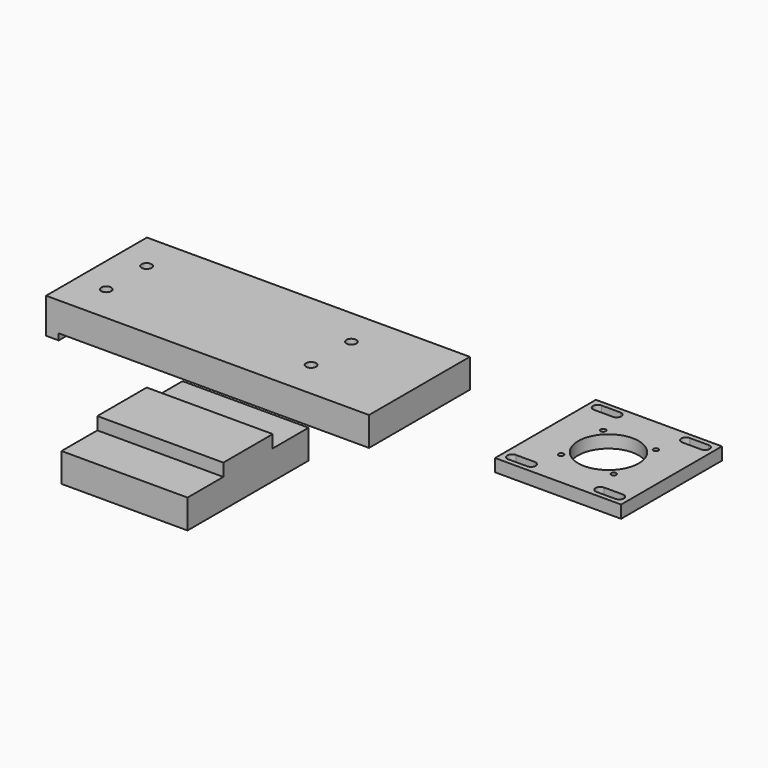
from build123d import *

# Parameters (mm, degrees)
F0_W            = 325.4375
F0_H            = 127
F1_DEPTH        = 9.525
F2_W            = 300.0375
F2_H            = 31.115
F3_DEPTH        = 19.685
F5_W            = 127
F5_H            = 152.4
F6_DEPTH        = 29.21
F7_W            = 12.7
F7_H            = 127
F8_DEPTH        = 6.35
F9_D            = 9.525
F9_DEPTH        = 12.7
F9_TIP          = 2.8615986981
F11_DEPTH       = 12.7
F12_W           = 127
F12_H           = 127
F12_R           = 30.48
F13_DEPTH       = 12.7
F14_D           = 5.1054
F14_DEPTH       = 15.875
F14_CSINK_D     = 10.4394
F14_CSINK_ANGLE = 82
F14_TIP         = 1.5338169022
F16_D           = 3.3
F16_DEPTH       = 17.975
F16_TIP         = 0.9914200214
F18_D           = 10.0838
F18_DEPTH       = 20.6248
F18_TIP         = 3.0294791551


with BuildPart() as f1:
    # F0 (on Top) → F1 (new body)
    with BuildSketch(Plane.XY):
        with Locations((-162.71875, 63.5)):
            Rectangle(F0_W, F0_H)
    extrude(amount=F1_DEPTH)

    # F2 (on face) → F3 (join)
    with BuildSketch(Plane(origin=(0, 0, 0), x_dir=(1, 0, 0), z_dir=(0, 0, -1))):
        Polygon((-312.7375, 0), (-325.4375, 0), (-325.4375, -127), (-312.7375, -127), (-312.7375, -95.885), (-312.7375, -31.115), align=None)
        with Locations((-162.71875, -15.5575)):
            Rectangle(F2_W, F2_H)
        Polygon((0, 0), (-12.7, 0), (-12.7, -31.115), (-12.7, -95.885), (-312.7375, -95.885), (-312.7375, -127), (-12.7, -127), (0, -127), align=None)
    extrude(amount=F3_DEPTH)

    # F7 (on face) → F8 (join)
    with BuildSketch(Plane(origin=(0, 0, -19.685), x_dir=(1, 0, 0), z_dir=(0, 0, -1))):
        with Locations((-319.0875, -63.5)):
            Rectangle(F7_W, F7_H)
    extrude(amount=F8_DEPTH)

    # F9
    with Locations(Plane(origin=(-325.4375, 0, 0), x_dir=(0, -1, 0), z_dir=(-1, 0, 0))):
        with Locations((-63.5, -15.875)):
            Hole(F9_D / 2, depth=F9_DEPTH)
            with Locations((0, 0, -(F9_DEPTH + F9_TIP / 2))):  # 118° drill point
                Cone(0, F9_D / 2, F9_TIP, mode=Mode.SUBTRACT)

    # F16
    with Locations(Plane(origin=(-325.4375, 0, 0), x_dir=(0, -1, 0), z_dir=(-1, 0, 0))):
        with Locations((-30.1625, -15.875), (-96.8375, -15.875)):
            Hole(F16_D / 2, depth=F16_DEPTH)
            with Locations((0, 0, -(F16_DEPTH + F16_TIP / 2))):  # 118° drill point
                Cone(0, F16_D / 2, F16_TIP, mode=Mode.SUBTRACT)

    # F18
    with Locations(Plane.XY.offset(9.525)):
        with Locations((-295.275, 38.1), (-295.275, 88.9), (-88.9, 38.1), (-88.9, 88.9)):
            Hole(F18_D / 2, depth=F18_DEPTH)
            with Locations((0, 0, -(F18_DEPTH + F18_TIP / 2))):  # 118° drill point
                Cone(0, F18_D / 2, F18_TIP, mode=Mode.SUBTRACT)


with BuildPart() as f6:
    # F5 (on Top) → F6 (new body)
    with BuildSketch(Plane.XY):
        with Locations((-63.5, -152.4)):
            Rectangle(F5_W, F5_H)
    extrude(amount=F6_DEPTH)

    # F10 (on face) → F11 (join)
    with BuildSketch(Plane.XY.offset(29.21)):
        Polygon((-127, -152.4), (-127, -183.515), (0, -183.515), (0, -152.4), (0, -121.285), (-127, -121.285), align=None)
    extrude(amount=F11_DEPTH)


with BuildPart() as f13:
    # F12 (on Top) → F13 (new body)
    with BuildSketch(Plane.XY):
        with Locations((190.5, 63.5)):
            Rectangle(F12_W, F12_H)
        with BuildLine():
            Line((136.525, 14.2875), (155.575, 14.2875))
            ThreePointArc((155.575, 14.2875), (160.3375, 9.525), (155.575, 4.7625))
            Line((155.575, 4.7625), (136.525, 4.7625))
            ThreePointArc((136.525, 4.7625), (131.7625, 9.525), (136.525, 14.2875))
        make_face(mode=Mode.SUBTRACT)
        with BuildLine():
            ThreePointArc((244.475, 14.2875), (249.2375, 9.525), (244.475, 4.7625))
            Line((244.475, 4.7625), (225.425, 4.7625))
            ThreePointArc((225.425, 4.7625), (220.6625, 9.525), (225.425, 14.2875))
            Line((225.425, 14.2875), (244.475, 14.2875))
        make_face(mode=Mode.SUBTRACT)
        with BuildLine():
            ThreePointArc((136.525, 112.7125), (131.7625, 117.475), (136.525, 122.2375))
            Line((136.525, 122.2375), (155.575, 122.2375))
            ThreePointArc((155.575, 122.2375), (160.3375, 117.475), (155.575, 112.7125))
            Line((155.575, 112.7125), (136.525, 112.7125))
        make_face(mode=Mode.SUBTRACT)
        with Locations((190.5, 63.5)):
            Circle(F12_R, mode=Mode.SUBTRACT)
        with BuildLine():
            Line((244.475, 112.7125), (225.425, 112.7125))
            ThreePointArc((225.425, 112.7125), (220.6625, 117.475), (225.425, 122.2375))
            Line((225.425, 122.2375), (244.475, 122.2375))
            ThreePointArc((244.475, 122.2375), (249.2375, 117.475), (244.475, 112.7125))
        make_face(mode=Mode.SUBTRACT)
    extrude(amount=F13_DEPTH)

    # F14
    with Locations(Plane(origin=(0, 0, 0), x_dir=(1, 0, 0), z_dir=(0, 0, -1))):
        with Locations((217.0186963255, -36.9813036745), (217.0186963255, -90.0186963255), (163.9813036745, -90.0186963255), (163.9813036745, -36.9813036745)):
            CounterSinkHole(F14_D / 2, F14_CSINK_D / 2, depth=F14_DEPTH, counter_sink_angle=F14_CSINK_ANGLE)
            with Locations((0, 0, -(F14_DEPTH + F14_TIP / 2))):  # 118° drill point
                Cone(0, F14_D / 2, F14_TIP, mode=Mode.SUBTRACT)


solid = Compound([f1.part, f6.part, f13.part])
